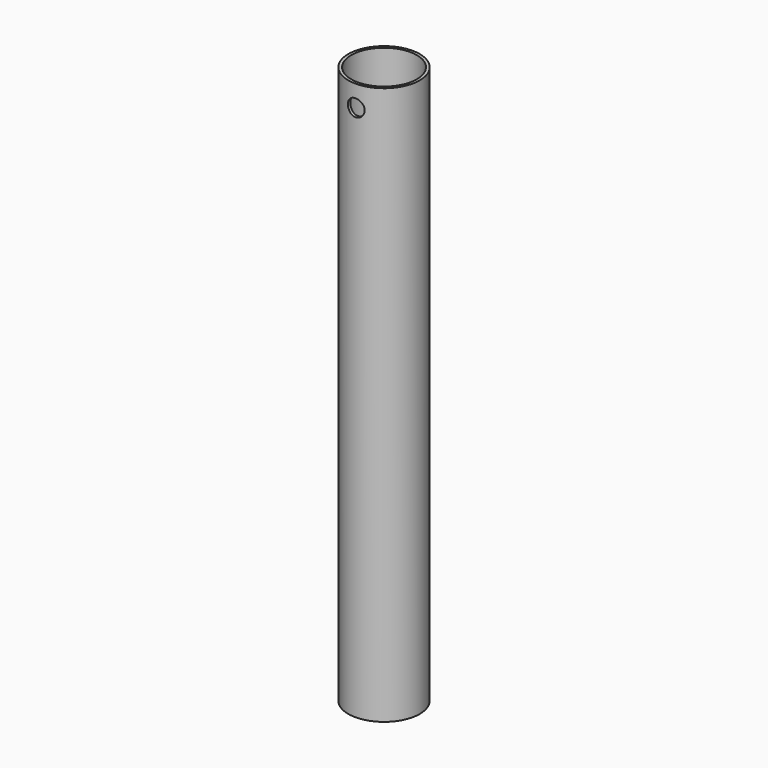
from build123d import *

# Parameters (mm, degrees)
CYLINDER208_R     = 3.75
CYLINDER208_DEPTH = 10
TUBE006_R         = 16
TUBE006_R_2       = 14.7
TUBE006_DEPTH     = 250


with BuildPart() as cylinder208:
    # Cylinder208 → Cylinder208 (new body)
    with BuildSketch(Plane(origin=(0, -8, -36.5), x_dir=(1, 0, 0), z_dir=(0, -1, 0))):
        Circle(CYLINDER208_R)
    extrude(amount=CYLINDER208_DEPTH)


with BuildPart() as metalholder:
    # Tube006 → Tube006 (new body)
    with BuildSketch(Plane.XY.offset(-277)):
        Circle(TUBE006_R)
        Circle(TUBE006_R_2, mode=Mode.SUBTRACT)
    extrude(amount=TUBE006_DEPTH)

    # Cut150: cut Cylinder208
    add(cylinder208.part, mode=Mode.SUBTRACT)


with BuildPart() as metalholder_1:
    # Cut150 placement: moved
    add(metalholder.part.moved(Location((215, -20, 620))))


solid = metalholder_1.part
